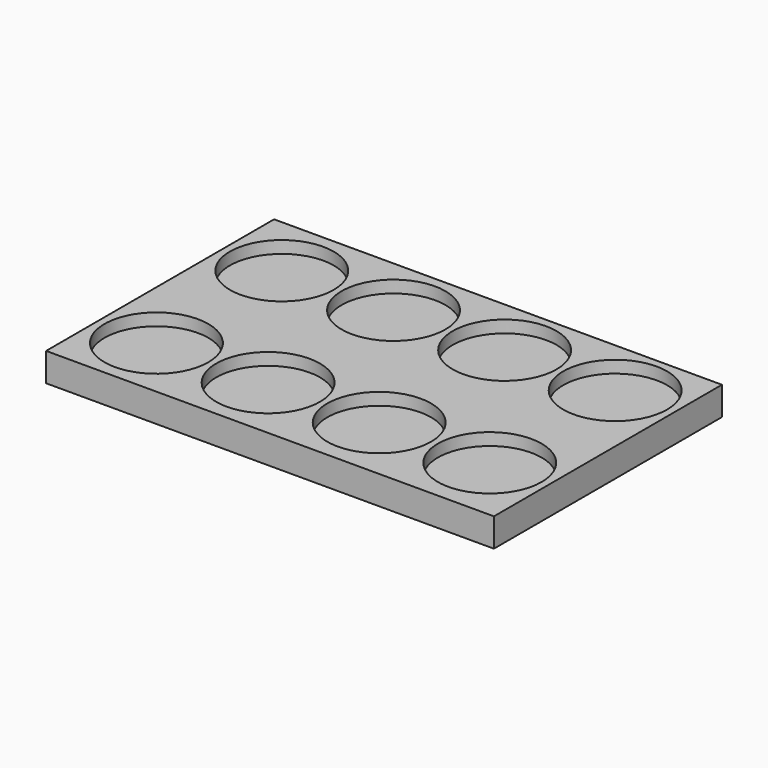
from build123d import *

# Parameters (mm, degrees)
F0_W     = 110
F0_H     = 70
F0_R     = 12.75
F1_DEPTH = 7
F2_DEPTH = 4


with BuildPart() as f1:
    # F0 (on Top) → F1 (new body)
    with BuildSketch(Plane.XY):
        with Locations((0, 33.521559)):
            Rectangle(F0_W, F0_H)
        with Locations((-40.5, 14.271559)):
            Circle(F0_R, mode=Mode.SUBTRACT)
        with Locations((-13.505545, 14.818744)):
            Circle(F0_R, mode=Mode.SUBTRACT)
        with Locations((13.491946, 15.186793)):
            Circle(F0_R, mode=Mode.SUBTRACT)
        with Locations((40.49125, 15.3807)):
            Circle(F0_R, mode=Mode.SUBTRACT)
        with Locations((-40.5, 52.771559)):
            Circle(F0_R, mode=Mode.SUBTRACT)
        with Locations((-13.505545, 53.318744)):
            Circle(F0_R, mode=Mode.SUBTRACT)
        with Locations((13.491946, 53.686793)):
            Circle(F0_R, mode=Mode.SUBTRACT)
        with Locations((40.49125, 53.8807)):
            Circle(F0_R, mode=Mode.SUBTRACT)
    extrude(amount=F1_DEPTH)

    # F0 (on Top) → F2 (join)
    with BuildSketch(Plane.XY):
        with Locations((-40.5, 52.771559)):
            Circle(F0_R)
        with Locations((-13.505545, 53.318744)):
            Circle(F0_R)
        with Locations((13.491946, 53.686793)):
            Circle(F0_R)
        with Locations((40.49125, 53.8807)):
            Circle(F0_R)
        with Locations((40.49125, 15.3807)):
            Circle(F0_R)
        with Locations((13.491946, 15.186793)):
            Circle(F0_R)
        with Locations((-13.505545, 14.818744)):
            Circle(F0_R)
        with Locations((-40.5, 14.271559)):
            Circle(F0_R)
    extrude(amount=F2_DEPTH)


solid = f1.part
